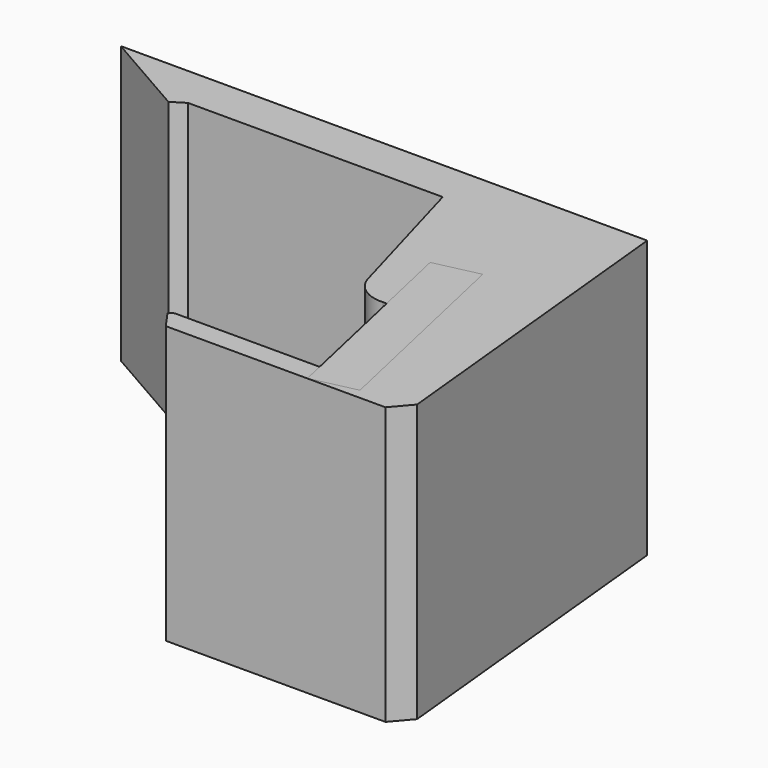
from build123d import *

# Parameters (mm, degrees)
F1_DEPTH      = 25
F4_DEPTH      = 11.8
F4_DEPTH_BACK = 7.9


with BuildPart() as f1:
    # F0 (on Top) → F1 (new body)
    with BuildSketch(Plane.XY):
        with BuildLine():
            Line((17, 0), (0, 0))
            Line((0, 0), (-0.408995, -0.287616))
            Line((-0.408995, -0.287616), (0.741468, -1.923597))
            Line((0.741468, -1.923597), (20.568367, -1.923597))
            Line((20.568367, -1.923597), (22.045034, -0.200958))
            Line((22.045034, -0.200958), (19.077505, 29.474324))
            Line((19.077505, 29.474324), (-28.438081, 29.474324))
            Line((-28.438081, 29.474324), (-20.503646, 24.927484))
            Line((-20.503646, 24.927484), (-19.316029, 25.661235))
            Line((-19.316029, 25.661235), (-16.316029, 25.661235))
            Line((-16.316029, 25.661235), (3.670942, 25.661235))
            Line((3.670942, 25.661235), (7.271827, 12.912866))
            ThreePointArc((7.271827, 12.912866), (8.390549, 11.108064), (10.425969, 10.503156))
            Line((10.425969, 10.503156), (14.964999, 10.503156))
            Line((14.964999, 10.503156), (17, 0))
        make_face()
    extrude(amount=F1_DEPTH)


with BuildPart() as f4:
    # F3 (on face) → F4 (new body, two sides)
    with BuildSketch(Plane(origin=(-1.524278, 6.815171, 0), x_dir=(0.975889, 0.218267, 0), z_dir=(0.218267, -0.975889, 0))) as f4_sk:
        with BuildLine():
            Line((16.896672, 0), (16.896672, 12.5))
            ThreePointArc((16.896672, 12.5), (15.838654, 5.918407), (12.771209, 0))
            Line((12.771209, 0), (16.896672, 0))
        make_face()
        with BuildLine():
            Line((16.896672, 12.5), (16.896672, 25))
            Line((16.896672, 25), (12.771209, 25))
            ThreePointArc((12.771209, 25), (15.838654, 19.081593), (16.896672, 12.5))
        make_face()
    extrude(amount=F4_DEPTH)
    extrude(f4_sk.sketch, amount=-F4_DEPTH_BACK)


solid = Compound([f1.part, f4.part])
